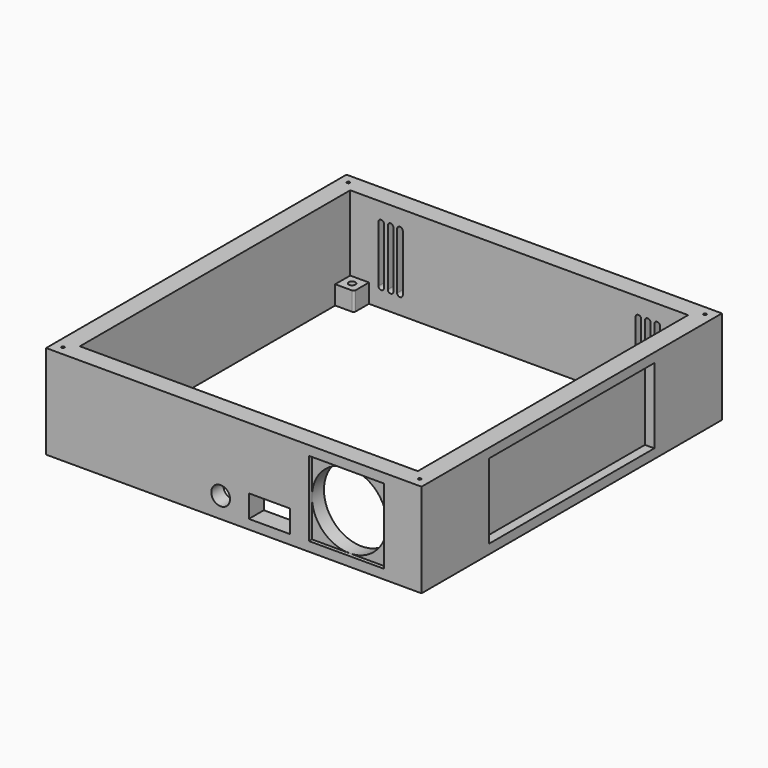
from build123d import *

# Parameters (mm, degrees)
SKETCH_W        = 200
SKETCH_H        = 200
SKETCH_W_2      = 180
SKETCH_H_2      = 180
PAD_DEPTH       = 50
SKETCH001_W     = 40
SKETCH001_H     = 40
POCKET_DEPTH    = 2
SKETCH002_R     = 20
POCKET001_DEPTH = 8
SKETCH003_W     = 22
SKETCH003_H     = 12
POCKET002_DEPTH = 10
SKETCH004_R     = 5
POCKET003_DEPTH = 10
SKETCH005_W     = 15
SKETCH005_H     = 15
POCKET004_DEPTH = 2
SKETCH006_R     = 0.75
POCKET005_DEPTH = 10
POCKET006_DEPTH = 10
SKETCH008_W     = 10
SKETCH008_H     = 10
SKETCH008_R     = 1.8
PAD001_DEPTH    = 10
FILLET_R        = 1
SKETCH009_R     = 1.2
POCKET007_DEPTH = 5
SKETCH010_W     = 110
SKETCH010_H     = 40
POCKET008_DEPTH = 5
SKETCH011_W     = 110
SKETCH011_H     = 40
POCKET009_DEPTH = 5
SKETCH012_W     = 110
SKETCH012_H     = 40
POCKET010_DEPTH = 5


with BuildPart() as part:
    # Sketch → Pad (new body)
    with BuildSketch(Plane.XY):
        with Locations((100, 100)):
            Rectangle(SKETCH_W, SKETCH_H)
        with Locations((100, 100)):
            Rectangle(SKETCH_W_2, SKETCH_H_2, mode=Mode.SUBTRACT)
    extrude(amount=PAD_DEPTH)

    # Sketch001 (on Face1 of Pad) → Pocket (cut)
    with BuildSketch(Plane.XZ):
        with Locations((160, 25)):
            Rectangle(SKETCH001_W, SKETCH001_H)
    extrude(amount=-POCKET_DEPTH, mode=Mode.SUBTRACT)

    # Sketch002 (on Face15 of Pocket) → Pocket001 (cut)
    with BuildSketch(Plane.XZ.offset(-2)):
        with Locations((160, 25)):
            Circle(SKETCH002_R)
    extrude(amount=-POCKET001_DEPTH, mode=Mode.SUBTRACT)

    # Sketch003 (on Face1 of Pocket001) → Pocket002 (cut)
    with BuildSketch(Plane.XZ):
        with Locations((119, 11)):
            Rectangle(SKETCH003_W, SKETCH003_H)
    extrude(amount=-POCKET002_DEPTH, mode=Mode.SUBTRACT)

    # Sketch004 (on Face1 of Pocket002) → Pocket003 (cut)
    with BuildSketch(Plane.XZ):
        with Locations((93, 11)):
            Circle(SKETCH004_R)
    extrude(amount=-POCKET003_DEPTH, mode=Mode.SUBTRACT)

    # Sketch005 (on Face16 of Pocket003) → Pocket004 (cut)
    with BuildSketch(Plane(origin=(0, 10, 0), x_dir=(-1, 0, 0), z_dir=(0, 1, 0))):
        with Locations((-93, 11)):
            Rectangle(SKETCH005_W, SKETCH005_H)
    extrude(amount=-POCKET004_DEPTH, mode=Mode.SUBTRACT)

    # Sketch006 (on Face4 of Pocket004) → Pocket005 (cut)
    with BuildSketch(Plane.XY.offset(50)):
        with Locations((5, 5)):
            Circle(SKETCH006_R)
        with Locations((195, 5)):
            Circle(SKETCH006_R)
        with Locations((195, 195)):
            Circle(SKETCH006_R)
        with Locations((5, 195)):
            Circle(SKETCH006_R)
    extrude(amount=-POCKET005_DEPTH, mode=Mode.SUBTRACT)

    # Sketch007 (on Face15 of Pocket005) → Pocket006 (cut)
    with BuildSketch(Plane(origin=(0, 200, 0), x_dir=(-1, 0, 0), z_dir=(0, 1, 0))):
        with BuildLine():
            ThreePointArc((-38, 10), (-36.5, 8.5), (-35, 10))
            Line((-35, 10), (-35, 40))
            ThreePointArc((-35, 40), (-36.5, 41.5), (-38, 40))
            Line((-38, 10), (-38, 40))
        make_face()
        with BuildLine():
            ThreePointArc((-33, 10), (-31.5, 8.5), (-30, 10))
            Line((-30, 10), (-30, 40))
            ThreePointArc((-30, 40), (-31.5, 41.5), (-33, 40))
            Line((-33, 10), (-33, 40))
        make_face()
        with BuildLine():
            ThreePointArc((-28, 10), (-26.5, 8.5), (-25, 10))
            Line((-25, 10), (-25, 40))
            ThreePointArc((-25, 40), (-26.5, 41.5), (-28, 40))
            Line((-28, 10), (-28, 40))
        make_face()
        with BuildLine():
            ThreePointArc((-165, 10), (-163.5, 8.5), (-162, 10))
            Line((-162, 10), (-162, 40))
            ThreePointArc((-162, 40), (-163.5, 41.5), (-165, 40))
            Line((-165, 10), (-165, 40))
        make_face()
        with BuildLine():
            ThreePointArc((-170, 10), (-168.5, 8.5), (-167, 10))
            Line((-167, 10), (-167, 40))
            ThreePointArc((-167, 40), (-168.5, 41.5), (-170, 40))
            Line((-170, 10), (-170, 40))
        make_face()
        with BuildLine():
            ThreePointArc((-175, 10), (-173.5, 8.5), (-172, 10))
            Line((-172, 10), (-172, 40))
            ThreePointArc((-172, 40), (-173.5, 41.5), (-175, 40))
            Line((-175, 10), (-175, 40))
        make_face()
    extrude(amount=-POCKET006_DEPTH, mode=Mode.SUBTRACT)

    # Sketch008 (on Face3 of Pocket006) → Pad001 (join)
    with BuildSketch(Plane(origin=(0, 0, 0), x_dir=(1, 0, 0), z_dir=(0, 0, -1))):
        with Locations((185, -15)):
            Rectangle(SKETCH008_W, SKETCH008_H)
        with Locations((185, -15)):
            Circle(SKETCH008_R, mode=Mode.SUBTRACT)
        with Locations((185, -185)):
            Rectangle(SKETCH008_W, SKETCH008_H)
        with Locations((185, -185)):
            Circle(SKETCH008_R, mode=Mode.SUBTRACT)
        with Locations((15, -15)):
            Rectangle(SKETCH008_W, SKETCH008_H)
        with Locations((15, -15)):
            Circle(SKETCH008_R, mode=Mode.SUBTRACT)
        with Locations((15, -185)):
            Rectangle(SKETCH008_W, SKETCH008_H)
        with Locations((15, -185)):
            Circle(SKETCH008_R, mode=Mode.SUBTRACT)
    extrude(amount=-PAD001_DEPTH)

    # Fillet
    fillet_edges = [part.edges().sort_by_distance(p)[0] for p in [
        (180, 20, 5),
        (20, 20, 5),
        (180, 180, 5),
        (20, 180, 5),
    ]]
    fillet(fillet_edges, radius=FILLET_R)

    # Sketch009 (on Face8 of Fillet) → Pocket007 (cut)
    with BuildSketch(Plane(origin=(0, 10, 0), x_dir=(-1, 0, 0), z_dir=(0, 1, 0))):
        with Locations((-144, 9)):
            Circle(SKETCH009_R)
        with Locations((-176, 41)):
            Circle(SKETCH009_R)
        with Locations((-176, 9)):
            Circle(SKETCH009_R)
        with Locations((-144, 41)):
            Circle(SKETCH009_R)
    extrude(amount=-POCKET007_DEPTH, mode=Mode.SUBTRACT)

    # Sketch010 (on Face22 of Pocket007) → Pocket008 (cut)
    with BuildSketch(Plane.YZ.offset(200)):
        with Locations((100, 25)):
            Rectangle(SKETCH010_W, SKETCH010_H)
    extrude(amount=-POCKET008_DEPTH, mode=Mode.SUBTRACT)

    # Sketch011 (on Face20 of Pocket008) → Pocket009 (cut)
    with BuildSketch(Plane(origin=(0, 0, 0), x_dir=(0, -1, 0), z_dir=(-1, 0, 0))):
        with Locations((-100, 25)):
            Rectangle(SKETCH011_W, SKETCH011_H)
    extrude(amount=-POCKET009_DEPTH, mode=Mode.SUBTRACT)

    # Sketch012 (on Face21 of Pocket009) → Pocket010 (cut)
    with BuildSketch(Plane(origin=(0, 200, 0), x_dir=(-1, 0, 0), z_dir=(0, 1, 0))):
        with Locations((-100, 25)):
            Rectangle(SKETCH012_W, SKETCH012_H)
    extrude(amount=-POCKET010_DEPTH, mode=Mode.SUBTRACT)


solid = part.part
